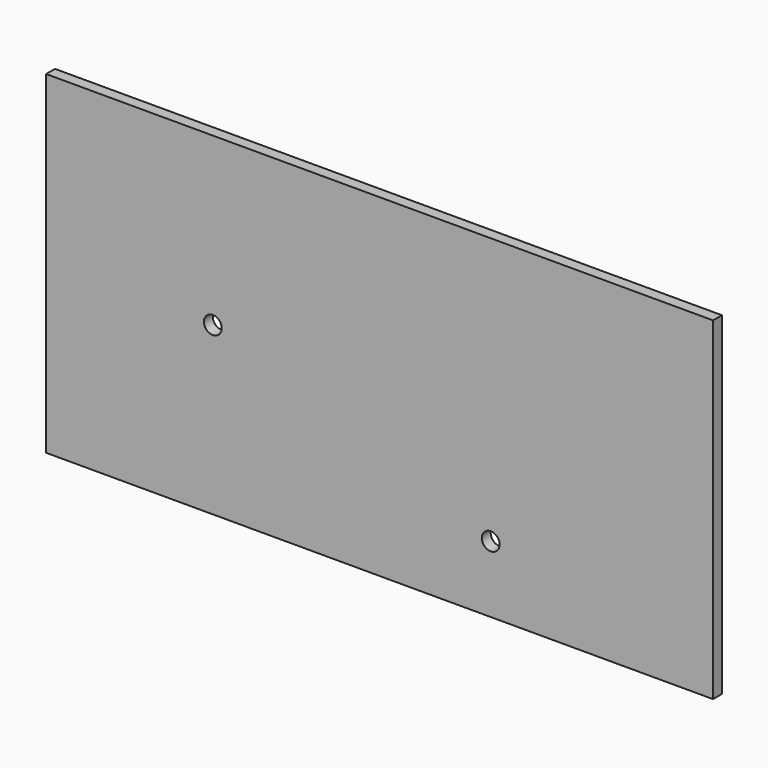
from build123d import *

# Parameters (mm, degrees)
F0_W     = 300
F0_H     = 150
F1_DEPTH = 5
F3_D     = 8


with BuildPart() as f1:
    # F0 (on Front) → F1 (new body)
    with BuildSketch(Plane.XZ):
        with Locations((-15.866557, -3.11603)):
            Rectangle(F0_W, F0_H)
    extrude(amount=F1_DEPTH)

    # F3 (through all)
    with Locations(Plane.XZ.offset(5)):
        with Locations((-90.866557, -3.11603), (34.133443, -48.11603)):
            Hole(F3_D / 2)


solid = f1.part
